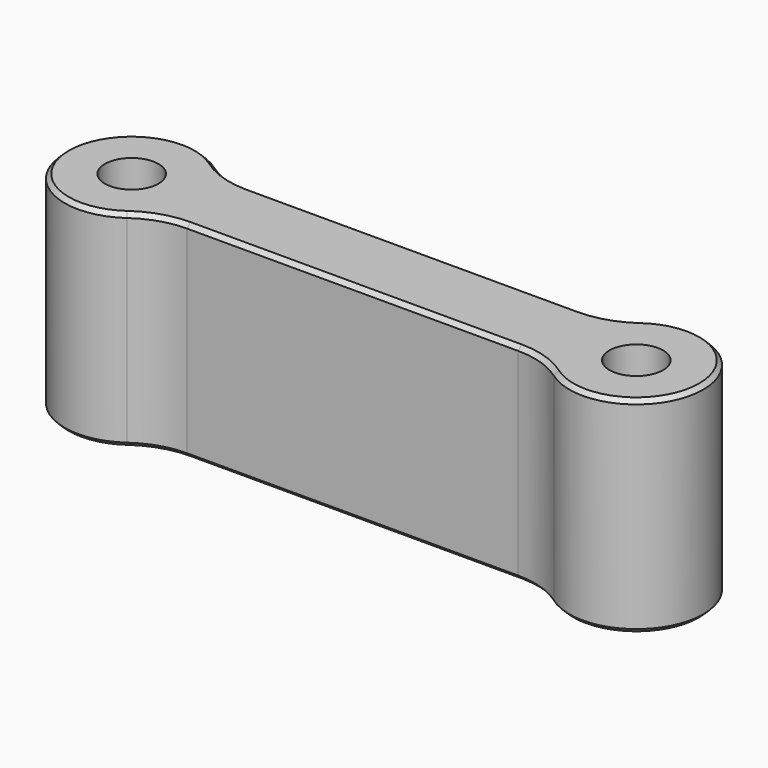
from build123d import *

# Parameters (mm, degrees)
F1_DEPTH = 10
F2_D     = 2.6
F3_R     = 4
F4_SIZE  = 0.2


with BuildPart() as f1:
    # F0 (on Top) → F1 (new body)
    with BuildSketch(Plane.XY):
        with BuildLine():
            ThreePointArc((2.636759, 1.9), (-3.25, 0), (2.636759, -1.9))
            Line((2.636759, -1.9), (21.863241, -1.9))
            ThreePointArc((21.863241, -1.9), (27.75, 0), (21.863241, 1.9))
            Line((21.863241, 1.9), (2.636759, 1.9))
        make_face()
    extrude(amount=F1_DEPTH)

    # F2 (through all)
    with Locations(Plane(origin=(0, 0, 0), x_dir=(1, 0, 0), z_dir=(0, 0, -1))):
        with Locations((0, 0), (24.5, 0)):
            Hole(F2_D / 2)

    # F3
    f3_edges = [f1.edges().sort_by_distance(p)[0] for p in [
        (2.636759, -1.9, 5),
        (21.863241, -1.9, 5),
        (2.636759, 1.9, 5),
        (21.863241, 1.9, 5),
    ]]
    fillet(f3_edges, radius=F3_R)

    # F4
    f4_edges = [f1.edges().sort_by_distance(p)[0] for p in [
        (12.25, 1.9, 0),
        (12.25, 1.9, 10),
    ]]
    chamfer(f4_edges, length=F4_SIZE)


solid = f1.part
